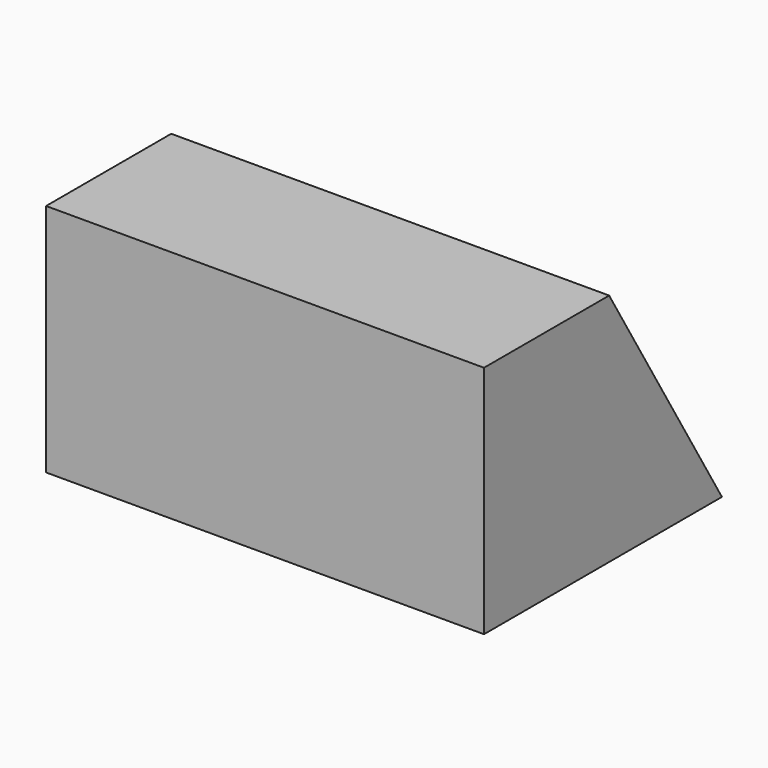
from build123d import *

# Parameters (mm, degrees)
F1_DEPTH = 224
F2_T     = -2.5
F3_W     = 164
F3_H     = 80
F4_DEPTH = 6
F5_W     = 20
F5_H     = 5
F5_R     = 1.7
F6_DEPTH = 3


with BuildPart() as f1:
    # F0 (on Right) → F1 (new body)
    with BuildSketch(Plane.YZ):
        Polygon((0, 120), (0, 0), (152.1110255093, 0), (80, 120), align=None)
    extrude(amount=F1_DEPTH)

    # F2
    f2_openings = [f1.faces().sort_by_distance(p)[0] for p in [
        (112, 76.055513, 0),
    ]]
    offset(amount=F2_T, openings=f2_openings, kind=Kind.INTERSECTION)

    # F3 (on face) → F4 (cut)
    with BuildSketch(Plane(origin=(0, 111.7550391497, 67.1564206576), x_dir=(-1, 0, 0), z_dir=(0, 0.8571428571, 0.5150787536))):
        with Locations((-112, -8.3491574339)):
            Rectangle(F3_W, F3_H)
    extrude(amount=-F4_DEPTH, mode=Mode.SUBTRACT)

    # F5 (on face) → F6 (join)
    with BuildSketch(Plane(origin=(0, 2.5, 0), x_dir=(-1, 0, 0), z_dir=(0, 1, 0))):
        with Locations((-164.5, 30)):
            Rectangle(F5_W, F5_H)
        with Locations((-172, 30)):
            Circle(F5_R, mode=Mode.SUBTRACT)
        with Locations((-164.5, 60)):
            Rectangle(F5_W, F5_H)
        with Locations((-172, 60)):
            Circle(F5_R, mode=Mode.SUBTRACT)
        with Locations((-59.5, 30)):
            Rectangle(F5_W, F5_H)
        with Locations((-52, 30)):
            Circle(F5_R, mode=Mode.SUBTRACT)
        with Locations((-59.5, 60)):
            Rectangle(F5_W, F5_H)
        with Locations((-52, 60)):
            Circle(F5_R, mode=Mode.SUBTRACT)
    extrude(amount=F6_DEPTH)


solid = f1.part
